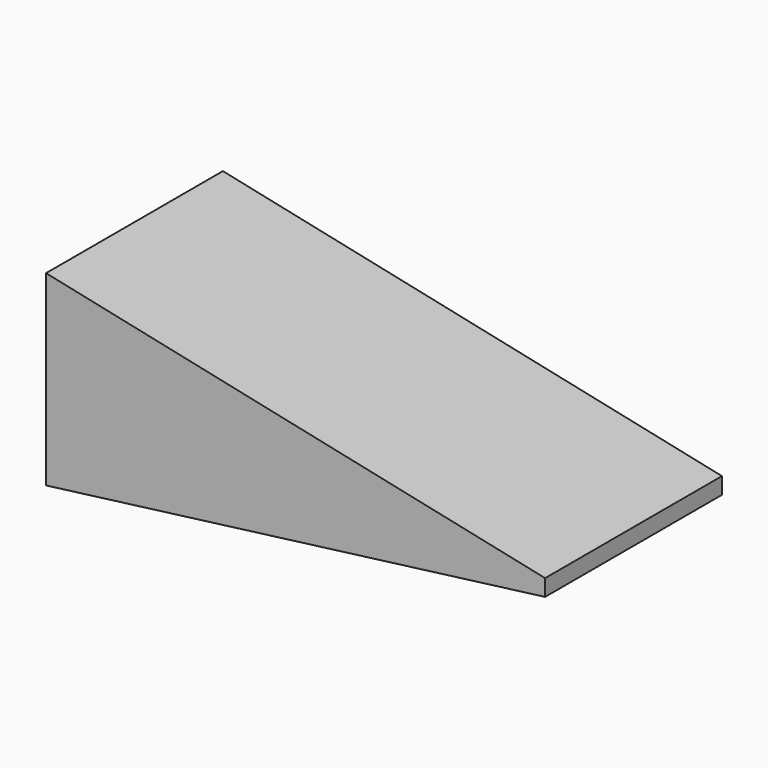
from build123d import *

# Parameters (mm, degrees)
F0_W     = 57.347074
F0_H     = 21.480516
F1_DEPTH = 25.4
F3_DEPTH = 25.4
F5_DEPTH = 25.4


with BuildPart() as f1:
    # F0 (on Front) → F1 (new body)
    with BuildSketch(Plane.XZ):
        with Locations((28.673537, 23.155603)):
            Rectangle(F0_W, F0_H)
    extrude(amount=F1_DEPTH)

    # F2 (on Front) → F3 (cut)
    with BuildSketch(Plane.XZ):
        Polygon((57.347074, 33.895861), (0, 33.895861), (57.347074, 21.689083), align=None)
    extrude(amount=F3_DEPTH, mode=Mode.SUBTRACT)

    # F4 (on Front) → F5 (cut)
    with BuildSketch(Plane.XZ):
        Polygon((57.347074, 19.787414), (0, 12.415345), (57.347074, 12.415345), align=None)
    extrude(amount=F5_DEPTH, mode=Mode.SUBTRACT)


solid = f1.part
